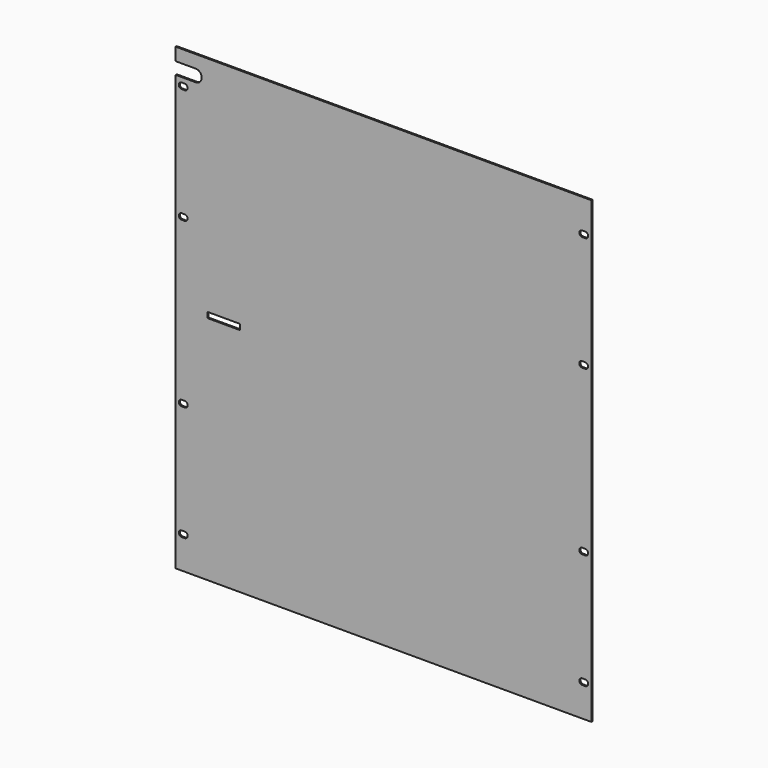
from build123d import *

# Parameters (mm, degrees)
F0_W      = 482.6
F0_H      = 533.2
F1_DEPTH  = 1.6
F10_W     = 38
F10_H     = 6.4
F11_DEPTH = 1.6
F2_W      = 3.5
F2_H      = 6.8
F3_W      = 3.5
F3_H      = 6.8
F4_W      = 3.5
F4_H      = 6.8
F5_W      = 3.5
F5_H      = 6.8
F6_W      = 3.5
F6_H      = 6.8
F7_W      = 3.5
F7_H      = 6.8
F8_W      = 3.5
F8_H      = 6.8
F9_W      = 3.5
F9_H      = 6.8
F12_DEPTH = 1.6
F14_DEPTH = 1.6


with BuildPart() as f1:
    # F0 (on Front) → F1 (new body)
    with BuildSketch(Plane.XZ):
        Rectangle(F0_W, F0_H)
    extrude(amount=-F1_DEPTH)

    # F10 (on face) → F11 (cut)
    with BuildSketch(Plane.XZ):
        with Locations((-185.4, 4.4)):
            Rectangle(F10_W, F10_H)
    extrude(amount=-F11_DEPTH, mode=Mode.SUBTRACT)

    # F2 (on face) + F3 (on face) + F4 (on face) + F5 (on face) + F6 (on face) + F7 (on face) + F8 (on face) + F9 (on face) → F12 (cut)
    with BuildSketch(Plane.XZ):
        with Locations((-232.5, 228.9)):
            Rectangle(F2_W, F2_H)
        with BuildLine():
            Line((-230.75, 232.3), (-230.75, 225.5))
            ThreePointArc((-230.75, 225.5), (-227.35, 228.9), (-230.75, 232.3))
        make_face()
        with BuildLine():
            ThreePointArc((-234.25, 232.3), (-237.65, 228.9), (-234.25, 225.5))
            Line((-234.25, 225.5), (-234.25, 232.3))
        make_face()
    with BuildSketch(Plane.XZ):
        with Locations((-232.5, 95.35)):
            Rectangle(F3_W, F3_H)
        with BuildLine():
            Line((-230.75, 98.75), (-230.75, 91.95))
            ThreePointArc((-230.75, 91.95), (-227.35, 95.35), (-230.75, 98.75))
        make_face()
        with BuildLine():
            ThreePointArc((-234.25, 98.75), (-237.65, 95.35), (-234.25, 91.95))
            Line((-234.25, 91.95), (-234.25, 98.75))
        make_face()
    with BuildSketch(Plane.XZ):
        with Locations((-232.5, -95.35)):
            Rectangle(F4_W, F4_H)
        with BuildLine():
            Line((-230.75, -91.95), (-230.75, -98.75))
            ThreePointArc((-230.75, -98.75), (-227.35, -95.35), (-230.75, -91.95))
        make_face()
        with BuildLine():
            ThreePointArc((-234.25, -91.95), (-237.65, -95.35), (-234.25, -98.75))
            Line((-234.25, -98.75), (-234.25, -91.95))
        make_face()
    with BuildSketch(Plane.XZ):
        with Locations((-232.5, -228.9)):
            Rectangle(F5_W, F5_H)
        with BuildLine():
            Line((-230.75, -225.5), (-230.75, -232.3))
            ThreePointArc((-230.75, -232.3), (-227.35, -228.9), (-230.75, -225.5))
        make_face()
        with BuildLine():
            ThreePointArc((-234.25, -225.5), (-237.65, -228.9), (-234.25, -232.3))
            Line((-234.25, -232.3), (-234.25, -225.5))
        make_face()
    with BuildSketch(Plane.XZ):
        with Locations((232.5, 228.9)):
            Rectangle(F6_W, F6_H)
        with BuildLine():
            Line((234.25, 232.3), (234.25, 225.5))
            ThreePointArc((234.25, 225.5), (237.65, 228.9), (234.25, 232.3))
        make_face()
        with BuildLine():
            ThreePointArc((230.75, 232.3), (227.35, 228.9), (230.75, 225.5))
            Line((230.75, 225.5), (230.75, 232.3))
        make_face()
    with BuildSketch(Plane.XZ):
        with Locations((232.5, 95.35)):
            Rectangle(F7_W, F7_H)
        with BuildLine():
            Line((234.25, 98.75), (234.25, 91.95))
            ThreePointArc((234.25, 91.95), (237.65, 95.35), (234.25, 98.75))
        make_face()
        with BuildLine():
            ThreePointArc((230.75, 98.75), (227.35, 95.35), (230.75, 91.95))
            Line((230.75, 91.95), (230.75, 98.75))
        make_face()
    with BuildSketch(Plane.XZ):
        with Locations((232.5, -95.35)):
            Rectangle(F8_W, F8_H)
        with BuildLine():
            Line((234.25, -91.95), (234.25, -98.75))
            ThreePointArc((234.25, -98.75), (237.65, -95.35), (234.25, -91.95))
        make_face()
        with BuildLine():
            ThreePointArc((230.75, -91.95), (227.35, -95.35), (230.75, -98.75))
            Line((230.75, -98.75), (230.75, -91.95))
        make_face()
    with BuildSketch(Plane.XZ):
        with Locations((232.5, -228.9)):
            Rectangle(F9_W, F9_H)
        with BuildLine():
            Line((234.25, -225.5), (234.25, -232.3))
            ThreePointArc((234.25, -232.3), (237.65, -228.9), (234.25, -225.5))
        make_face()
        with BuildLine():
            ThreePointArc((230.75, -225.5), (227.35, -228.9), (230.75, -232.3))
            Line((230.75, -232.3), (230.75, -225.5))
        make_face()
    extrude(amount=-F12_DEPTH, mode=Mode.SUBTRACT)

    # F13 (on face) → F14 (cut)
    with BuildSketch(Plane.XZ):
        with BuildLine():
            Line((-218, 237.8), (-218, 251.8))
            ThreePointArc((-218, 251.8), (-225, 244.8), (-218, 237.8))
        make_face()
        with BuildLine():
            ThreePointArc((-218, 237.8), (-213.0502525317, 239.8502525317), (-211, 244.8))
            ThreePointArc((-211, 244.8), (-213.0502525317, 249.7497474683), (-218, 251.8))
            Line((-218, 251.8), (-218, 237.8))
        make_face()
        with BuildLine():
            ThreePointArc((-218, 237.8), (-225, 244.8), (-218, 251.8))
            Line((-218, 251.8), (-241.3, 251.8))
            Line((-241.3, 251.8), (-241.3, 237.8))
            Line((-241.3, 237.8), (-218, 237.8))
        make_face()
    extrude(amount=-F14_DEPTH, mode=Mode.SUBTRACT)


solid = f1.part
